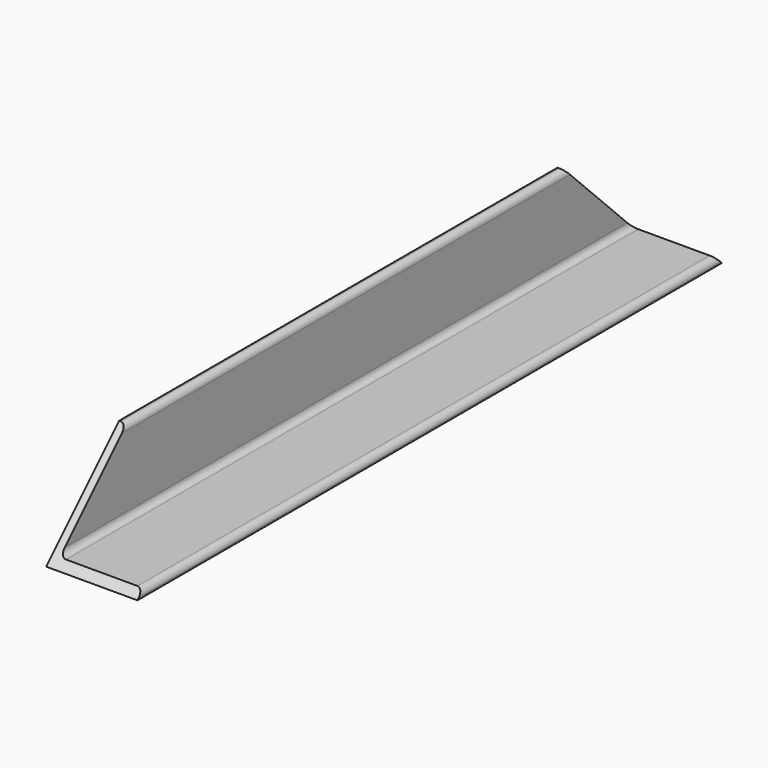
from build123d import *

# Parameters (mm, degrees)
F1_DEPTH = 304.8
F2_R     = 5.08
F4_DEPTH = 76.2


with BuildPart() as f1:
    # F0 (on Front) → F1 (new body, symmetric)
    with BuildSketch(Plane.XZ):
        Polygon((-38.1, -38.1), (38.1, -38.1), (38.1, -31.75), (-31.75, -31.75), (-31.75, 38.1), (-38.1, 38.1), align=None)
    extrude(amount=F1_DEPTH, both=True)

    # F2
    f2_edges = [f1.edges().sort_by_distance(p)[0] for p in [
        (-31.75, 0, 38.1),
        (-31.75, 0, -31.75),
        (38.1, 0, -31.75),
    ]]
    fillet(f2_edges, radius=F2_R)

    # F3 (on face) → F4 (cut)
    with BuildSketch(Plane(origin=(-38.1, 0, 0), x_dir=(0, -1, 0), z_dir=(-1, 0, 0))):
        Polygon((-304.8, 38.1), (-304.8, -38.1), (-228.6, 38.1), align=None)
        Polygon((228.6, 38.1), (304.8, -38.1), (304.8, 38.1), align=None)
    extrude(amount=-F4_DEPTH, mode=Mode.SUBTRACT)


solid = f1.part
